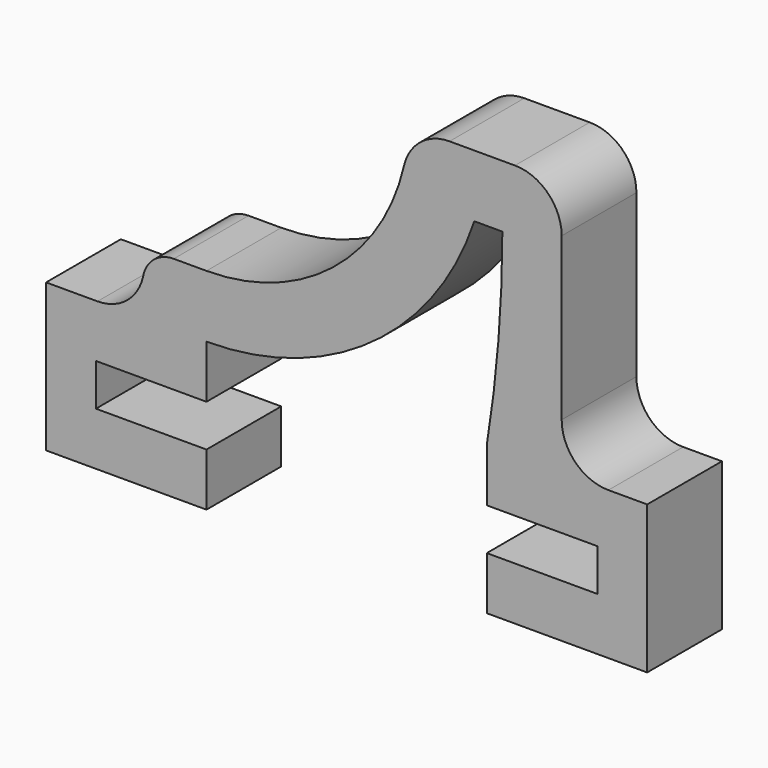
from build123d import *

# Parameters (mm, degrees)
F1_DEPTH = 3
F2_R     = 1.5
F3_R     = 1


with BuildPart() as f1:
    # F0 (on Front) → F1 (new body)
    with BuildSketch(Plane.XZ):
        with BuildLine():
            Line((8.050567, 0.675), (8.050567, -0.675))
            Line((8.050567, -0.675), (4.5, -0.675))
            Line((4.5, -0.675), (4.5, -2.375))
            Line((4.5, -2.375), (9.650567, -2.375))
            Line((9.650567, -2.375), (9.650567, 2.375))
            Line((9.650567, 2.375), (6.905382, 2.375))
            Line((6.905382, 2.375), (6.905382, 10.575))
            Line((6.905382, 10.575), (4.905382, 10.575))
            Line((4.905382, 10.575), (2.005382, 10.575))
            ThreePointArc((2.005382, 10.575), (-0.006672, 6.173255), (-4.5, 4.375))
            Line((-4.5, 4.375), (-6.5, 4.375))
            Line((-6.5, 4.375), (-6.5, 2.375))
            Line((-6.5, 2.375), (-9.650567, 2.375))
            Line((-9.650567, 2.375), (-9.650567, -2.375))
            Line((-9.650567, -2.375), (-4.5, -2.375))
            Line((-4.5, -2.375), (-4.5, -0.675))
            Line((-4.5, -0.675), (-8.050567, -0.675))
            Line((-8.050567, -0.675), (-8.050567, 0.675))
            Line((-8.050567, 0.675), (-4.5, 0.675))
            Line((-4.5, 0.675), (-4.5, 2.375))
            ThreePointArc((-4.5, 2.375), (0.800943, 4.086595), (4.1, 8.575))
            Line((4.1, 8.575), (5, 8.575))
            ThreePointArc((5, 8.575), (4.874797, 5.464936), (4.5, 2.375))
            Line((4.5, 2.375), (4.5, 0.675))
            Line((4.5, 0.675), (8.050567, 0.675))
        make_face()
    extrude(amount=F1_DEPTH)

    # F2
    f2_edges = [f1.edges().sort_by_distance(p)[0] for p in [
        (-6.5, -1.5, 2.375),
        (6.905382, -1.5, 2.375),
        (6.905382, -1.5, 10.575),
        (2.005382, -1.5, 10.575),
    ]]
    fillet(f2_edges, radius=F2_R)

    # F3
    f3_edges = [f1.edges().sort_by_distance(p)[0] for p in [
        (-6.5, -1.5, 4.375),
    ]]
    fillet(f3_edges, radius=F3_R)


solid = f1.part
